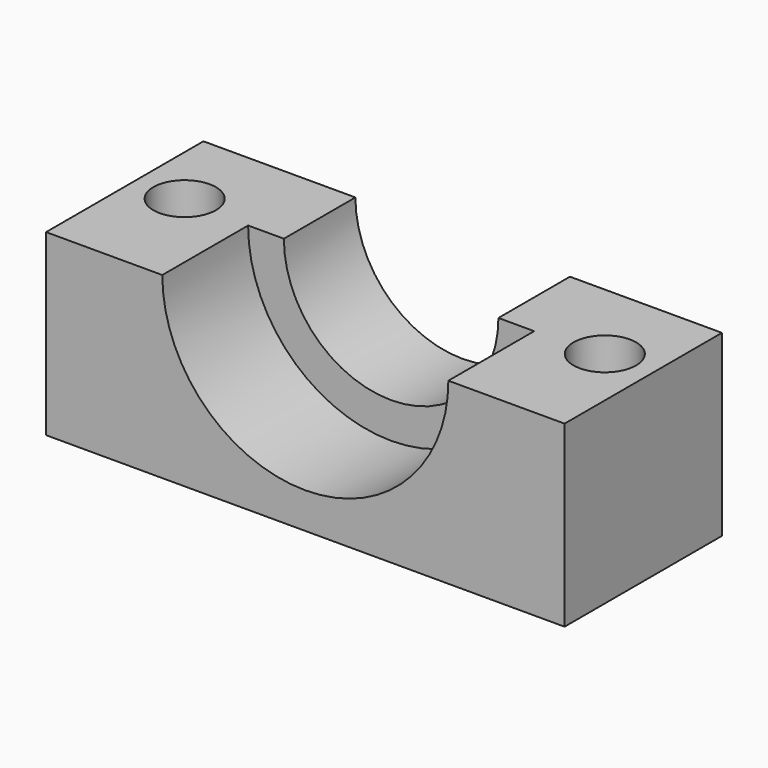
from build123d import *

# Parameters (mm, degrees)
F0_W      = 25
F0_H      = 11
F1_DEPTH  = 10
F2_R      = 8
F3_DEPTH  = 6
F4_R      = 6
F5_DEPTH  = 6
F6_W      = 11
F6_H      = 10
F7_DEPTH  = 2
F8_W      = 11
F8_H      = 10
F9_DEPTH  = 2
F10_R     = 1.75
F11_DEPTH = 25


with BuildPart() as f1:
    # F0 (on Top) → F1 (new body)
    with BuildSketch(Plane.XY):
        with Locations((12.5, 5.5)):
            Rectangle(F0_W, F0_H)
    extrude(amount=F1_DEPTH)

    # F2 (on face) → F3 (cut)
    with BuildSketch(Plane.XZ):
        with Locations((12.5, 10)):
            Circle(F2_R)
    extrude(amount=-F3_DEPTH, mode=Mode.SUBTRACT)

    # F4 (on face) → F5 (cut)
    with BuildSketch(Plane(origin=(0, 11, 0), x_dir=(-1, 0, 0), z_dir=(0, 1, 0))):
        with Locations((-12.5, 10)):
            Circle(F4_R)
    extrude(amount=-F5_DEPTH, mode=Mode.SUBTRACT)

    # F6 (on face) → F7 (join)
    with BuildSketch(Plane(origin=(0, 0, 0), x_dir=(0, -1, 0), z_dir=(-1, 0, 0))):
        with Locations((-5.5, 5)):
            Rectangle(F6_W, F6_H)
    extrude(amount=F7_DEPTH)

    # F8 (on face) → F9 (join)
    with BuildSketch(Plane.YZ.offset(25)):
        with Locations((5.5, 5)):
            Rectangle(F8_W, F8_H)
    extrude(amount=F9_DEPTH)

    # F10 (on face) → F11 (cut)
    with BuildSketch(Plane.XY.offset(10)):
        with Locations((0.75, 6.25)):
            Circle(F10_R)
        with Locations((24.25, 6.25)):
            Circle(F10_R)
    extrude(amount=-F11_DEPTH, mode=Mode.SUBTRACT)


solid = f1.part
